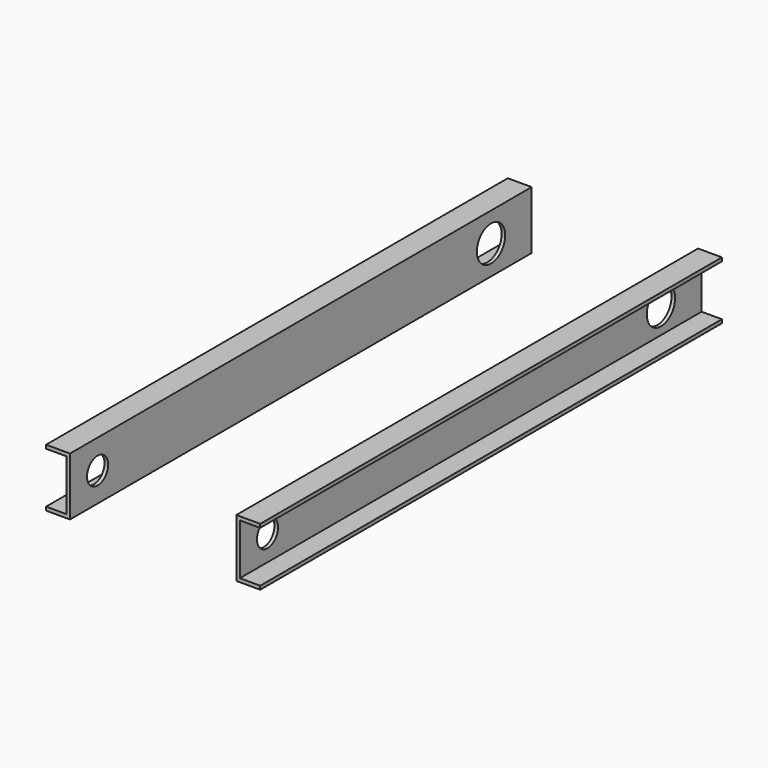
from build123d import *

# Parameters (mm, degrees)
F1_DEPTH = 1009.65
F2_R     = 30.95625
F2_R_2   = 23.01875
F3_DEPTH = 25.4


with BuildPart() as f1:
    # F0 (on Front) → F1 (new body)
    with BuildSketch(Plane.XZ):
        Polygon((-8.32118, 44.31186), (-50.15498, 44.31186), (-50.15498, -57.28814), (-8.32118, -57.28814), (-8.32118, -51.01434), (-43.88118, -51.01434), (-43.88118, 38.03806), (-8.32118, 38.03806), align=None)
    extrude(amount=F1_DEPTH)

    # F2 (on face) → F3 (cut)
    with BuildSketch(Plane.YZ.offset(-43.88118)):
        with Locations((-88.9, -6.48814)):
            Circle(F2_R)
        with Locations((-949.325, -6.48814)):
            Circle(F2_R_2)
    extrude(amount=-F3_DEPTH, mode=Mode.SUBTRACT)


with BuildPart() as f5_1:
    # F5: instance of F1
    add(f1.part.mirror(Plane.YZ.offset(-195.6435)))


solid = Compound([f1.part, f5_1.part])
